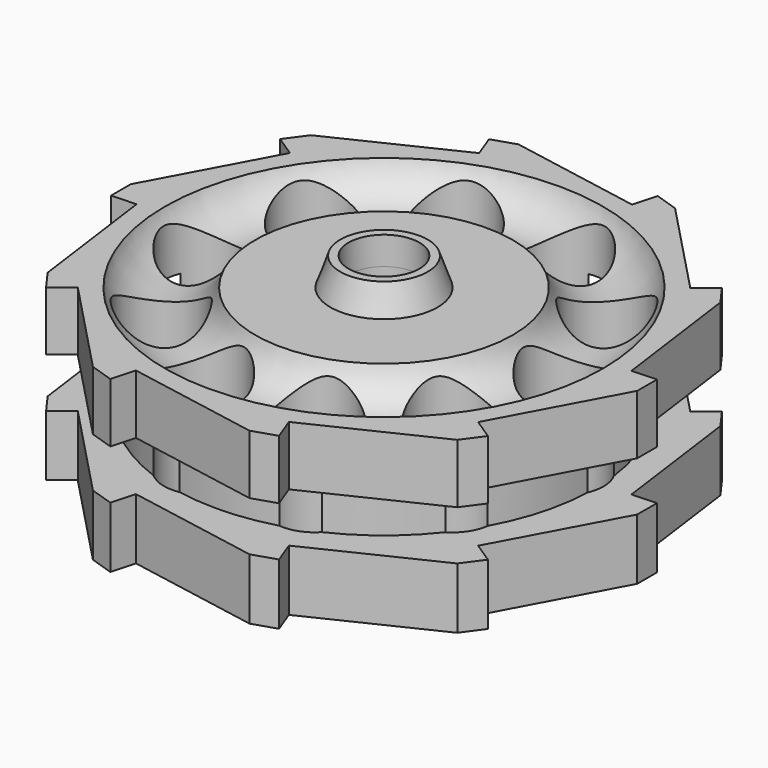
from build123d import *

# Parameters (mm, degrees)
F0_R     = 2.4
F0_R_2   = 3.25
F0_R_3   = 2.15
F1_DEPTH = 10.3
F2_W     = 5
F2_H     = 3
F5_W     = 0.5
F5_H     = 1.7
F7_R     = 2.875


with BuildPart() as f1:
    # F0 (on Top) → F1 (new body)
    with BuildSketch(Plane.XY):
        Polygon((3.859673, 13.976871), (-4.19212, 15.441054), (-5.619705, 14.980618), (-5.092857, 13.576185), (-12.46752, 10.028009), (-13.351823, 8.816395), (-12.10009, 7.989858), (-15.980751, 0.784605), (-15.983999, -0.715391), (-14.485499, -0.648323), (-13.389878, -8.758491), (-12.51083, -9.973922), (-11.33794, -9.038867), (-5.684528, -14.956141), (-4.25895, -15.422754), (-3.859673, -13.976871), (4.19212, -15.441054), (5.619705, -14.980618), (5.092857, -13.576185), (12.46752, -10.028009), (13.351823, -8.816395), (12.10009, -7.989858), (15.980751, -0.784605), (15.983999, 0.715391), (14.485499, 0.648323), (13.389878, 8.758491), (12.51083, 9.973922), (11.33794, 9.038867), (5.684528, 14.956141), (4.25895, 15.422754), align=None)
        with Locations((-2.808245, -10.169379)):
            Circle(F0_R, mode=Mode.SUBTRACT)
        with Locations((-8.249329, -6.576555)):
            Circle(F0_R, mode=Mode.SUBTRACT)
        with Locations((-10.539449, -0.471711)):
            Circle(F0_R, mode=Mode.SUBTRACT)
        with Locations((3.705493, -9.877845)):
            Circle(F0_R, mode=Mode.SUBTRACT)
        Circle(F0_R_2, mode=Mode.SUBTRACT)
        with Locations((8.803858, -5.81331)):
            Circle(F0_R, mode=Mode.SUBTRACT)
        with Locations((-8.803858, 5.81331)):
            Circle(F0_R, mode=Mode.SUBTRACT)
        with Locations((-3.705493, 9.877845)):
            Circle(F0_R, mode=Mode.SUBTRACT)
        with Locations((10.539449, 0.471711)):
            Circle(F0_R, mode=Mode.SUBTRACT)
        with Locations((8.249329, 6.576555)):
            Circle(F0_R, mode=Mode.SUBTRACT)
        with Locations((2.808245, 10.169379)):
            Circle(F0_R, mode=Mode.SUBTRACT)
        Circle(F0_R_2)
        Circle(F0_R_3, mode=Mode.SUBTRACT)
    extrude(amount=F1_DEPTH)


with BuildPart() as f3:
    # F2 (on Front) → F3 (revolve)
    with BuildSketch(Plane.XZ):
        with Locations((15.25, 5.2)):
            Rectangle(F2_W, F2_H)
    revolve(axis=Axis((0, 0, 1.85), (0, 0, 1)))


with BuildPart() as f1_1:
    add(f1.part)

    # F4: cut F3
    add(f3.part, mode=Mode.SUBTRACT)

    # F5 (on Right) → F6 (revolve)
    with BuildSketch(Plane.YZ):
        with Locations((2.4, 11.15)):
            Rectangle(F5_W, F5_H)
        Polygon((2.65, 12), (2.65, 10.3), (3.25, 10.3), align=None)
    revolve(axis=Axis((0, 0, 5.15), (0, 0, 1)))

    # F7 (on Front) → F8 (revolve, cut)
    with BuildSketch(Plane.XZ):
        with Locations((10.55, 11.175)):
            Circle(F7_R)
    revolve(axis=Axis((0, 0, 5.5875), (0, 0, 1)), mode=Mode.SUBTRACT)


solid = f1_1.part
